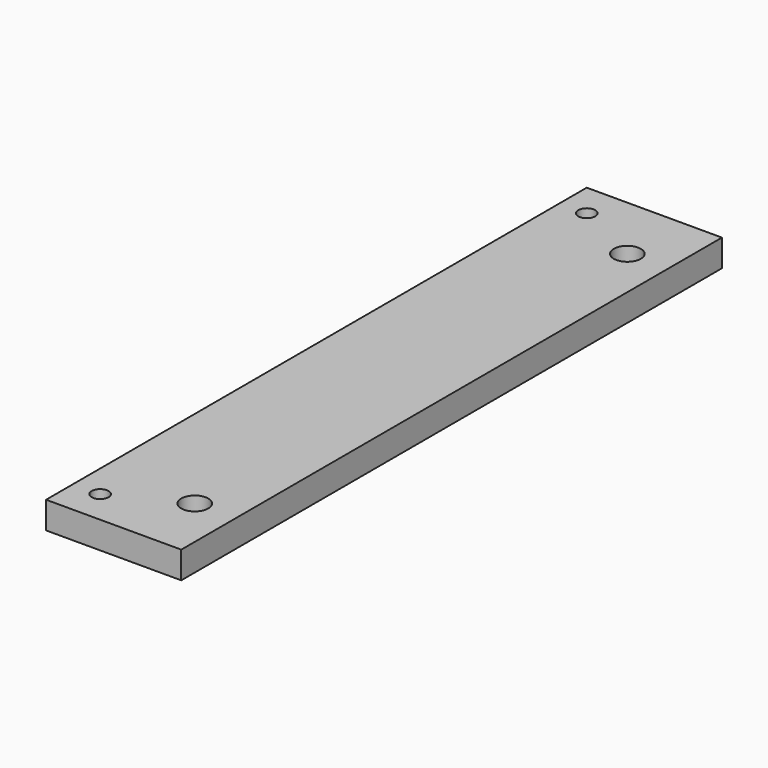
from build123d import *

# Parameters (mm, degrees)
F0_R     = 3.96875
F0_R_2   = 6.35
F1_DEPTH = 12.7


with BuildPart() as f1:
    # F0 (on Top) → F1 (new body)
    with BuildSketch(Plane.XY):
        Polygon((-23.019589, 158.75), (-86.519589, 158.75), (-86.519589, -158.75), (-58.071589, -158.75), (-23.019589, -158.75), align=None)
        with Locations((-73.819589, -142.875)):
            Circle(F0_R, mode=Mode.SUBTRACT)
        with Locations((-42.069589, -127)):
            Circle(F0_R_2, mode=Mode.SUBTRACT)
        with Locations((-73.819589, 142.875)):
            Circle(F0_R, mode=Mode.SUBTRACT)
        with Locations((-42.069589, 127)):
            Circle(F0_R_2, mode=Mode.SUBTRACT)
    extrude(amount=F1_DEPTH)


solid = f1.part
